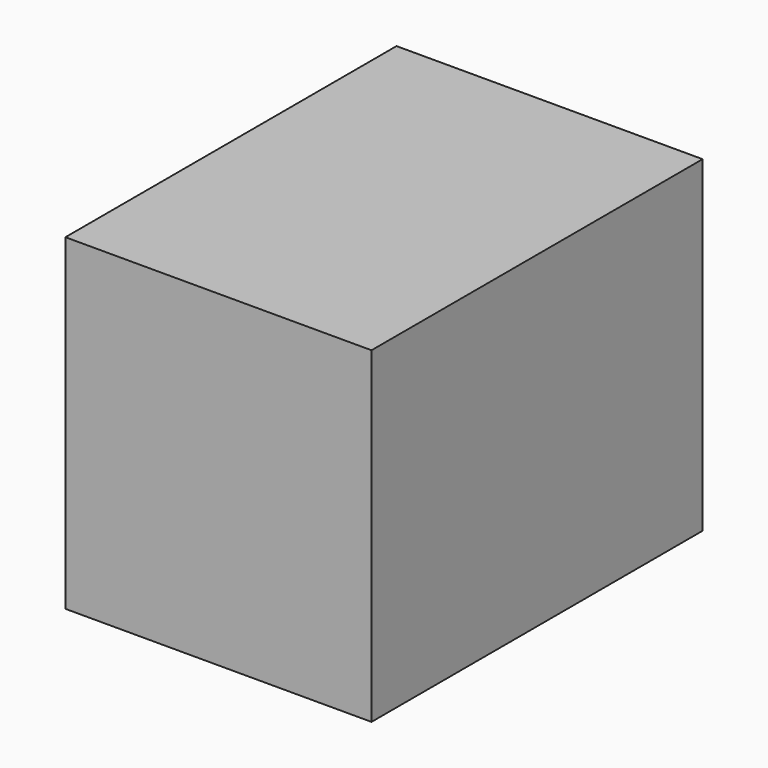
from build123d import *

# Parameters (mm, degrees)
F0_W     = 30.4961651564
F0_H     = 59.7476512194
F1_DEPTH = 75.5790397525
F2_DEPTH = 25.4


with BuildPart() as f1:
    # F0 (on Front) → F1 (new body)
    with BuildSketch(Plane.XZ):
        with Locations((15.2480825782, -29.8738256097)):
            Rectangle(F0_W, F0_H)
    extrude(amount=F1_DEPTH)

    # F2 (add): a face of the model
    f2_faces = [f1.faces().sort_by_distance(p)[0] for p in [
        (30.4961651564, -37.7895198762, -29.8738256097),
    ]]
    extrude(f2_faces, amount=F2_DEPTH)


solid = f1.part
